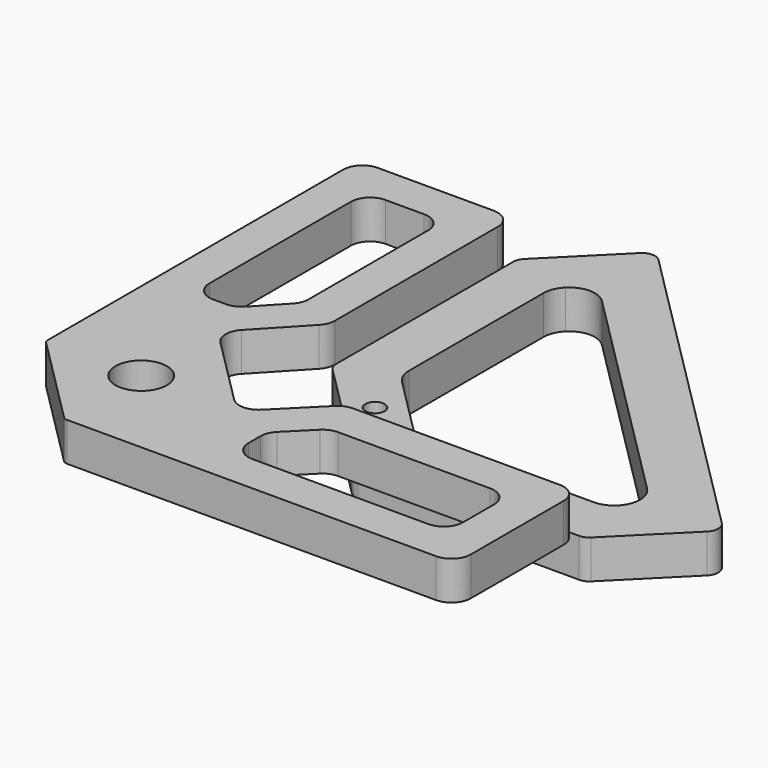
from build123d import *

# Parameters (mm, degrees)
F0_R     = 4.7625
F1_DEPTH = 19.05
F2_R     = 12.7
F3_DEPTH = 19.05
F4_R     = 3.175


with BuildPart() as f1:
    # F0 (on Top) → F1 (new body)
    with BuildSketch(Plane.XY):
        with BuildLine():
            ThreePointArc((-52.659872, -99.740128), (-50.599784, -101.116635), (-48.169744, -101.6))
            Line((-48.169744, -101.6), (60.869744, -101.6))
            ThreePointArc((60.869744, -101.6), (63.299784, -101.116635), (65.359872, -99.740128))
            Line((65.359872, -99.740128), (97.109872, -67.990128))
            ThreePointArc((97.109872, -67.990128), (98.969744, -63.5), (97.109872, -59.009872))
            Line((97.109872, -59.009872), (-59.009872, 97.109872))
            ThreePointArc((-59.009872, 97.109872), (-63.5, 98.969744), (-67.990128, 97.109872))
            Line((-67.990128, 97.109872), (-99.740128, 65.359872))
            ThreePointArc((-99.740128, 65.359872), (-101.116635, 63.299784), (-101.6, 60.869744))
            Line((-101.6, 60.869744), (-101.6, -48.169744))
            ThreePointArc((-101.6, -48.169744), (-101.116635, -50.599784), (-99.740128, -52.659872))
            Line((-99.740128, -52.659872), (-52.659872, -99.740128))
        make_face()
        with Locations((-67.219744, -67.219744)):
            Circle(F0_R, mode=Mode.SUBTRACT)
        with BuildLine():
            Line((-43.998719, -72.480256), (-72.480256, -43.998719))
            ThreePointArc((-72.480256, -43.998719), (-75.23327, -39.878543), (-76.2, -35.018463))
            Line((-76.2, -35.018463), (-76.2, 47.718463))
            ThreePointArc((-76.2, 47.718463), (-75.23327, 52.578543), (-72.480256, 56.698719))
            ThreePointArc((-72.480256, 56.698719), (-63.5, 60.418463), (-54.519744, 56.698719))
            Line((-54.519744, 56.698719), (56.698719, -54.519744))
            ThreePointArc((56.698719, -54.519744), (60.418463, -63.5), (56.698719, -72.480256))
            ThreePointArc((56.698719, -72.480256), (52.578543, -75.23327), (47.718463, -76.2))
            Line((47.718463, -76.2), (-35.018463, -76.2))
            ThreePointArc((-35.018463, -76.2), (-39.878543, -75.23327), (-43.998719, -72.480256))
        make_face(mode=Mode.SUBTRACT)
    extrude(amount=F1_DEPTH)


with BuildPart() as f3:
    # F2 (on face) → F3 (new body)
    with BuildSketch(Plane.XY.offset(19.05)):
        with BuildLine():
            Line((-101.6, -48.169744), (-101.6, 51.344744))
            ThreePointArc((-101.6, 51.344744), (-104.389808, 58.079936), (-111.125, 60.869744))
            Line((-111.125, 60.869744), (-168.275, 60.869744))
            ThreePointArc((-168.275, 60.869744), (-175.010192, 58.079936), (-177.8, 51.344744))
            Line((-177.8, 51.344744), (-177.8, -131.754482))
            Line((-177.8, -131.754482), (-131.754482, -177.8))
            Line((-131.754482, -177.8), (51.344744, -177.8))
            ThreePointArc((51.344744, -177.8), (58.079936, -175.010192), (60.869744, -168.275))
            Line((60.869744, -168.275), (60.869744, -111.125))
            ThreePointArc((60.869744, -111.125), (58.079936, -104.389808), (51.344744, -101.6))
            Line((51.344744, -101.6), (-48.169744, -101.6))
            Line((-48.169744, -101.6), (-50.57436, -101.6))
            ThreePointArc((-50.57436, -101.6), (-54.219419, -102.325047), (-57.309552, -104.389808))
            Line((-57.309552, -104.389808), (-77.355576, -124.435832))
            ThreePointArc((-77.355576, -124.435832), (-84.090768, -127.22564), (-90.82596, -124.435832))
            Line((-90.82596, -124.435832), (-124.63805, -90.623743))
            ThreePointArc((-124.63805, -90.623743), (-127.426752, -84.033703), (-124.840174, -77.361739))
            Line((-124.840174, -77.361739), (-104.187684, -55.410308))
            ThreePointArc((-104.187684, -55.410308), (-102.270522, -52.39403), (-101.6, -48.883497))
            Line((-101.6, -48.883497), (-101.6, -48.169744))
        make_face()
        with Locations((-131.204069, -131.204069)):
            Circle(F2_R, mode=Mode.SUBTRACT)
        with BuildLine():
            ThreePointArc((-63.885192, -141.851601), (-63.160145, -138.206541), (-61.095384, -135.116409))
            Line((-61.095384, -135.116409), (-49.418783, -123.439808))
            ThreePointArc((-49.418783, -123.439808), (-46.328651, -121.375047), (-42.683591, -120.65))
            Line((-42.683591, -120.65), (32.294744, -120.65))
            ThreePointArc((32.294744, -120.65), (39.029936, -123.439808), (41.819744, -130.175))
            Line((41.819744, -130.175), (41.819744, -149.225))
            ThreePointArc((41.819744, -149.225), (39.029936, -155.960192), (32.294744, -158.75))
            Line((32.294744, -158.75), (-54.360192, -158.75))
            ThreePointArc((-54.360192, -158.75), (-61.095384, -155.960192), (-63.885192, -149.225))
            Line((-63.885192, -149.225), (-63.885192, -141.851601))
        make_face(mode=Mode.SUBTRACT)
        with BuildLine():
            Line((-158.75, -54.783115), (-158.75, 32.294744))
            ThreePointArc((-158.75, 32.294744), (-155.960192, 39.029936), (-149.225, 41.819744))
            Line((-149.225, 41.819744), (-130.175, 41.819744))
            ThreePointArc((-130.175, 41.819744), (-123.439808, 39.029936), (-120.65, 32.294744))
            Line((-120.65, 32.294744), (-120.65, -41.330746))
            ThreePointArc((-120.65, -41.330746), (-121.320522, -44.84128), (-123.237684, -47.857558))
            Line((-123.237684, -47.857558), (-135.894031, -61.309927))
            ThreePointArc((-135.894031, -61.309927), (-139.052608, -63.526499), (-142.831347, -64.308115))
            Line((-142.831347, -64.308115), (-149.225, -64.308115))
            ThreePointArc((-149.225, -64.308115), (-155.960192, -61.518307), (-158.75, -54.783115))
        make_face(mode=Mode.SUBTRACT)
    extrude(amount=F3_DEPTH)

    # F4
    f4_edges = [f3.edges().sort_by_distance(p)[0] for p in [
        (-131.754482, -177.8, 28.575),
        (-177.8, -131.754482, 28.575),
    ]]
    fillet(f4_edges, radius=F4_R)


solid = Compound([f1.part, f3.part])
